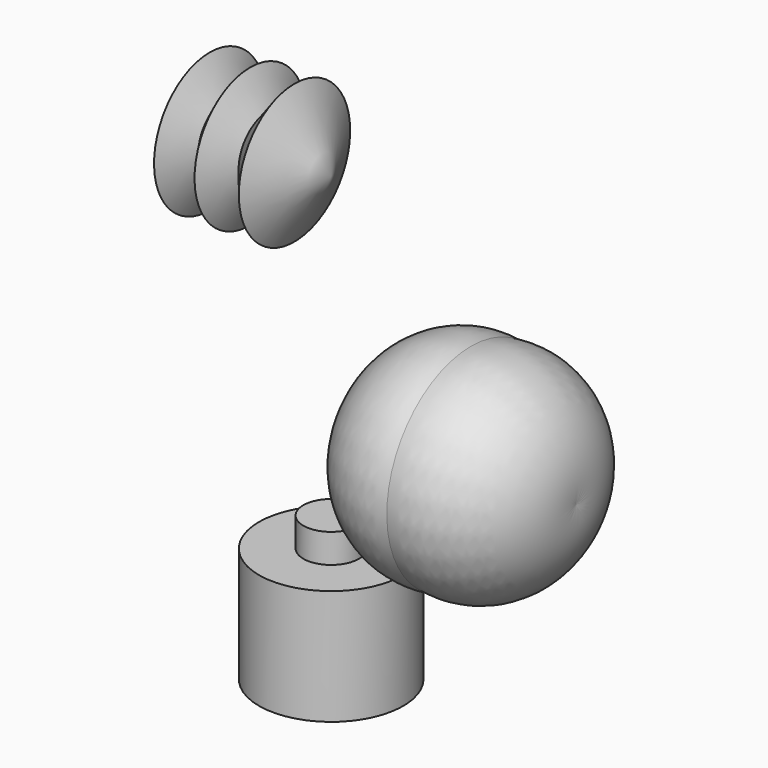
from build123d import *


with BuildPart() as f1:
    # F0 (on Front) → F1 (revolve)
    with BuildSketch(Plane.XZ):
        with BuildLine():
            Line((0, 25.4), (0, 0))
            Line((0, 0), (25.4, 0))
            ThreePointArc((25.4, 0), (19.092743, 19.092743), (0, 25.4))
        make_face()
        with BuildLine():
            Line((-25.4, 0), (0, 0))
            Line((0, 0), (0, 25.4))
            ThreePointArc((0, 25.4), (-19.151486, 19.151486), (-25.4, 0))
        make_face()
    revolve(axis=Axis((12.7, 0, 0), (1, 0, 0)))


with BuildPart() as f3:
    # F2 (on Front) → F3 (revolve)
    with BuildSketch(Plane.XZ):
        Polygon((-63.061319, 67.336664), (-67.947425, 50.540671), (-33.744678, 50.540671), (-42.600743, 67.336664), (-49.01376, 59.39674), (-53.289104, 67.336664), (-58.785975, 59.39674), align=None)
    revolve(axis=Axis((-50.846051, 0, 50.540671), (1, 0, 0)))


with BuildPart() as f5:
    # F4 (on Front) → F5 (revolve)
    with BuildSketch(Plane.XZ):
        Polygon((-51.151432, -56.342922), (-33.744678, -56.342922), (-33.744678, -21.528071), (-40.463071, -21.528071), (-40.463071, -28.553188), (-51.151432, -28.553188), align=None)
    revolve(axis=Axis((-33.744678, 0, -38.935496), (0, 0, -1)))


solid = Compound([f1.part, f3.part, f5.part])
